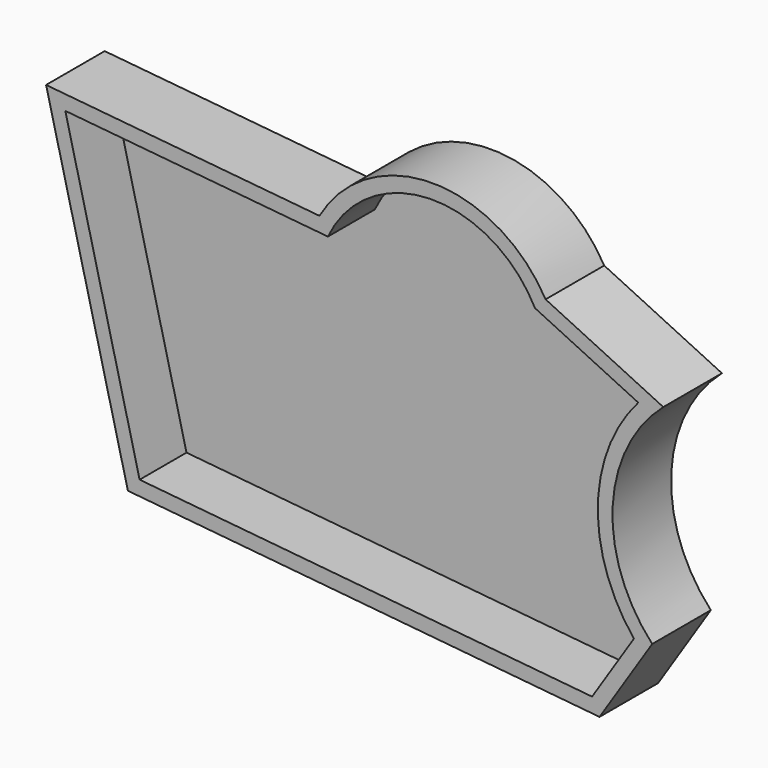
from build123d import *

# Parameters (mm, degrees)
F1_DEPTH = 25
F2_T     = -5


with BuildPart() as f1:
    # F0 (on Front) → F1 (new body)
    with BuildSketch(Plane.XZ):
        with BuildLine():
            Line((-97.2892269492, 54.3057918549), (-69.368712604, -58.5339777172))
            Line((-69.368712604, -58.5339777172), (91.566696763, -74.1254240274))
            Line((91.566696763, -74.1254240274), (109.536498785, -46.3779382408))
            ThreePointArc((109.536498785, -46.3779382408), (96.0497476015, -9.3687458636), (113.3273914456, 26.0297823697))
            Line((113.3273914456, 26.0297823697), (73.1596052647, 45.3208908439))
            ThreePointArc((73.1596052647, 45.3208908439), (34.5773908775, 67.7187295906), (-4.0048235096, 45.3208908439))
            Line((-4.0048235096, 45.3208908439), (-97.2892269492, 54.3057918549))
        make_face()
    extrude(amount=F1_DEPTH)

    # F2
    f2_openings = [f1.faces().sort_by_distance(p)[0] for p in [
        (10.886871, -25, -4.972042),
    ]]
    offset(amount=F2_T, openings=f2_openings, kind=Kind.INTERSECTION)


solid = f1.part
